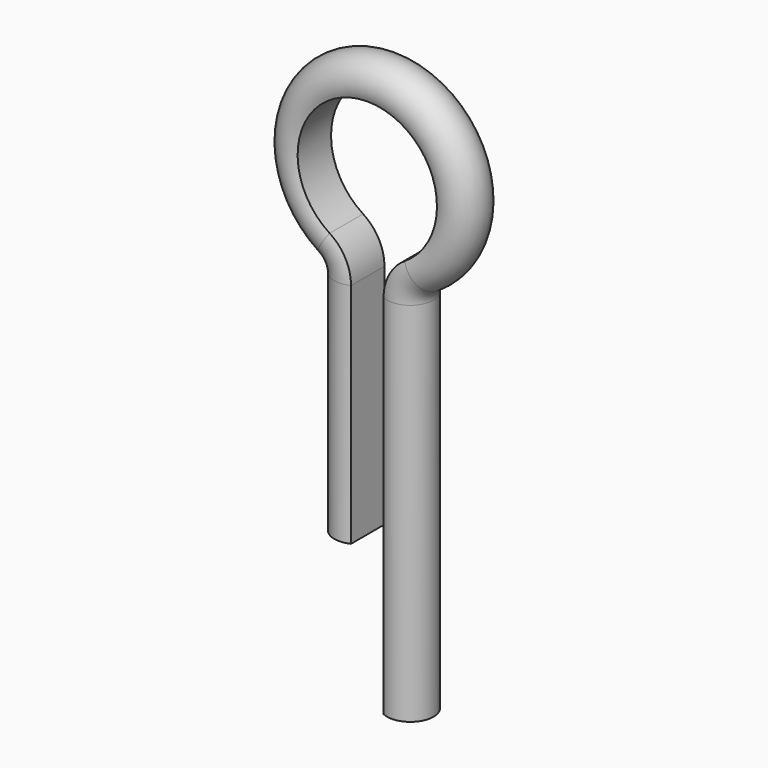
from build123d import *


with BuildPart() as f2:
    # F2: sweep along a path in F1
    with BuildLine(Plane.XZ) as f2_path:
        Line((3.5, -67.7657828438), (3.5, 11.1925917437))
        ThreePointArc((3.5, 11.1925917437), (4.7250356126, 15.988423267), (8.1, 19.6092419087))
        ThreePointArc((8.1, 19.6092419087), (0, 47.2342171562), (-8.1, 19.6092419087))
        ThreePointArc((-8.1, 19.6092419087), (-4.7250356126, 15.988423267), (-3.5, 11.1925917437))
        Line((-3.5, 11.1925917437), (-3.5, -37.7657828438))
    # F0 (on Top) → F2 (sweep)
    with BuildSketch(Plane.XY):
        with BuildLine():
            Line((3.5, 4.5), (3.5, -4.5))
            ThreePointArc((3.5, -4.5), (10.6794494718, 0), (3.5, 4.5))
        make_face()
    sweep(path=f2_path.line)


solid = f2.part
